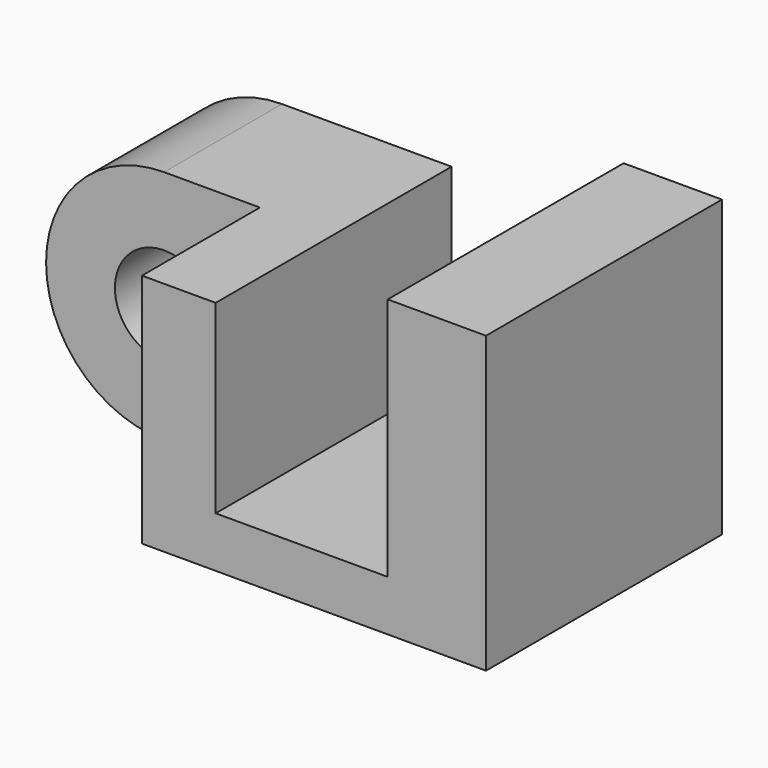
from build123d import *

# Parameters (mm, degrees)
F1_DEPTH = 600
F2_W     = 300
F2_H     = 480
F3_DEPTH = 195
F5_DEPTH = 300
F6_R     = 100
F7_DEPTH = 300.001


with BuildPart() as f1:
    # F0 (on Front) → F1 (new body)
    with BuildSketch(Plane.XZ):
        Polygon((-350, 180), (-350, -300), (350, -300), (350, 300), (150, 300), (150, -196.909353), (-200, -196.909353), (-200, 180), align=None)
    extrude(amount=F1_DEPTH)

    # F2 (on face) → F3 (join)
    with BuildSketch(Plane(origin=(-350, 0, 0), x_dir=(0, -1, 0), z_dir=(-1, 0, 0))):
        with Locations((150, -60)):
            Rectangle(F2_W, F2_H)
    extrude(amount=F3_DEPTH)

    # F4 (on face) → F5 (join)
    with BuildSketch(Plane.XZ.offset(300)):
        with BuildLine():
            ThreePointArc((-545, -300), (-375.294373, -229.705627), (-305, -60))
            ThreePointArc((-305, -60), (-375.294373, 109.705627), (-545, 180))
            Line((-545, 180), (-545, -300))
        make_face()
        with BuildLine():
            Line((-545, -300), (-545, 180))
            ThreePointArc((-545, 180), (-785, -60), (-545, -300))
        make_face()
    extrude(amount=-F5_DEPTH)

    # F6 (on face) → F7 (cut, through all)
    with BuildSketch(Plane.XZ.offset(300)):
        with Locations((-545, -60)):
            Circle(F6_R)
    extrude(amount=-F7_DEPTH, mode=Mode.SUBTRACT)


solid = f1.part
